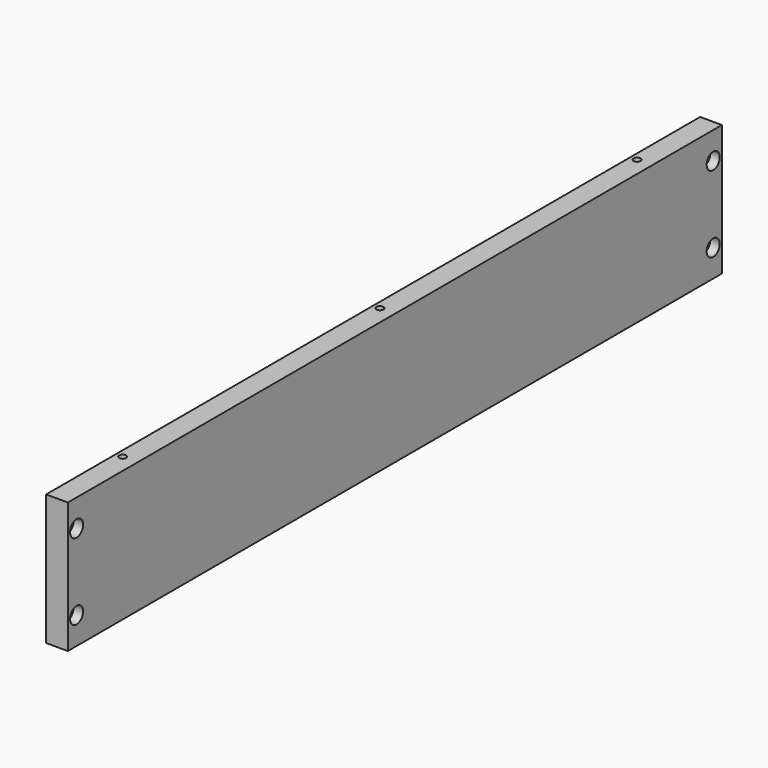
from build123d import *

# Parameters (mm, degrees)
F0_W           = 8
F0_H           = 48
F1_DEPTH       = 150
F5_D           = 2.6
F5_DEPTH       = 15
F5_TIP         = 0.7811188047
F5_ON_F4_D     = 2.6
F5_ON_F4_DEPTH = 15
F5_ON_F4_TIP   = 0.7811188047
F6_D           = 3.5
F6_CBORE_D     = 6
F6_CBORE_DEPTH = 3.5


with BuildPart() as f1:
    # F0 (on Front) → F1 (new body, symmetric)
    with BuildSketch(Plane.XZ):
        Rectangle(F0_W, F0_H)
    extrude(amount=F1_DEPTH, both=True)

    # F5
    with Locations(Plane.XY.offset(24)):
        with Locations((-1.5, -118), (-1.5, 0), (-1.5, 118)):
            Hole(F5_D / 2, depth=F5_DEPTH)
            with Locations((0, 0, -(F5_DEPTH + F5_TIP / 2))):  # 118° drill point
                Cone(0, F5_D / 2, F5_TIP, mode=Mode.SUBTRACT)

    # F5 on F4
    with Locations(Plane(origin=(0, 0, -24), x_dir=(1, 0, 0), z_dir=(0, 0, -1))):
        with Locations((-1.5, 118), (-1.5, 0), (-1.5, -118)):
            Hole(F5_ON_F4_D / 2, depth=F5_ON_F4_DEPTH)
            with Locations((0, 0, -(F5_ON_F4_DEPTH + F5_ON_F4_TIP / 2))):  # 118° drill point
                Cone(0, F5_ON_F4_D / 2, F5_ON_F4_TIP, mode=Mode.SUBTRACT)

    # F6 (through all)
    with Locations(Plane.YZ.offset(4)):
        with Locations((-146, 14), (-146, -14), (146, 14), (146, -14)):
            CounterBoreHole(F6_D / 2, F6_CBORE_D / 2, F6_CBORE_DEPTH)


solid = f1.part
